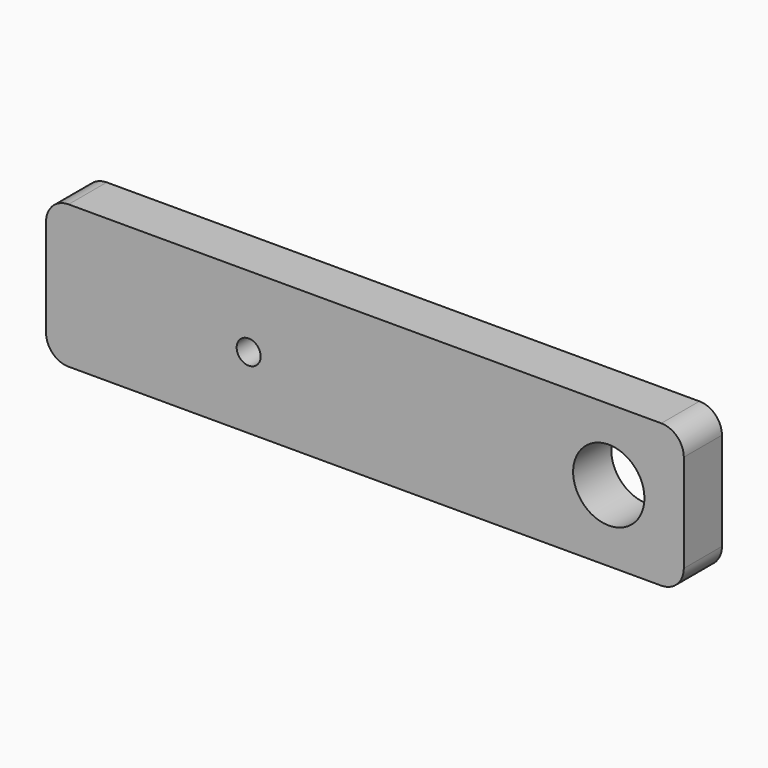
from build123d import *

# Parameters (mm, degrees)
F0_W     = 85
F0_H     = 19.05
F0_R     = 1.6
F0_R_2   = 4.75
F1_DEPTH = 6.35
F2_R     = 1.5
F3_DEPTH = 5
F4_R     = 3


with BuildPart() as f1:
    # F0 (on Front) → F1 (new body)
    with BuildSketch(Plane.XZ):
        Rectangle(F0_W, F0_H)
        with Locations((-15.5, 0)):
            Circle(F0_R, mode=Mode.SUBTRACT)
        with Locations((32.5, 0)):
            Circle(F0_R_2, mode=Mode.SUBTRACT)
    extrude(amount=F1_DEPTH)

    # F2 (on face) → F3 (cut)
    with BuildSketch(Plane(origin=(0, 0, -9.525), x_dir=(1, 0, 0), z_dir=(0, 0, -1))):
        with Locations((-25.5, 3.175)):
            Circle(F2_R)
        with Locations((25.5, 3.175)):
            Circle(F2_R)
    extrude(amount=-F3_DEPTH, mode=Mode.SUBTRACT)

    # F4
    f4_edges = [f1.edges().sort_by_distance(p)[0] for p in [
        (-42.5, -3.175, -9.525),
        (42.5, -3.175, -9.525),
        (42.5, -3.175, 9.525),
        (-42.5, -3.175, 9.525),
    ]]
    fillet(f4_edges, radius=F4_R)


solid = f1.part
